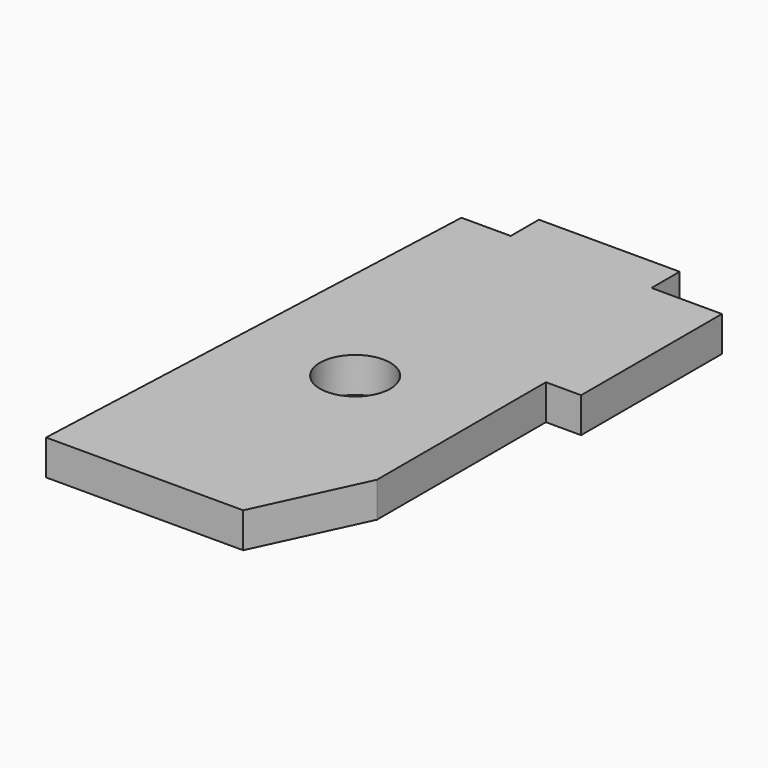
from build123d import *

# Parameters (mm, degrees)
F0_R     = 5
F1_DEPTH = 5
F3_DEPTH = 25


with BuildPart() as f1:
    # F0 (on Top) → F1 (new body)
    with BuildSketch(Plane.XY):
        Polygon((-7.5, 70), (-14.5, 70), (-17.5, 0), (22.5, 0), (22.5, 15), (17.5, 15), (17.5, 45), (22.5, 45), (22.5, 70), (12.5, 70), (12.5, 75), (-7.5, 75), align=None)
        with Locations((0, 33)):
            Circle(F0_R, mode=Mode.SUBTRACT)
    extrude(amount=F1_DEPTH)

    # F2 (on face) → F3 (cut)
    with BuildSketch(Plane.XY.offset(5)):
        Polygon((17.5, 15), (10.5, 0), (22.5, 0), (22.5, 15), align=None)
    extrude(amount=-F3_DEPTH, mode=Mode.SUBTRACT)


solid = f1.part
